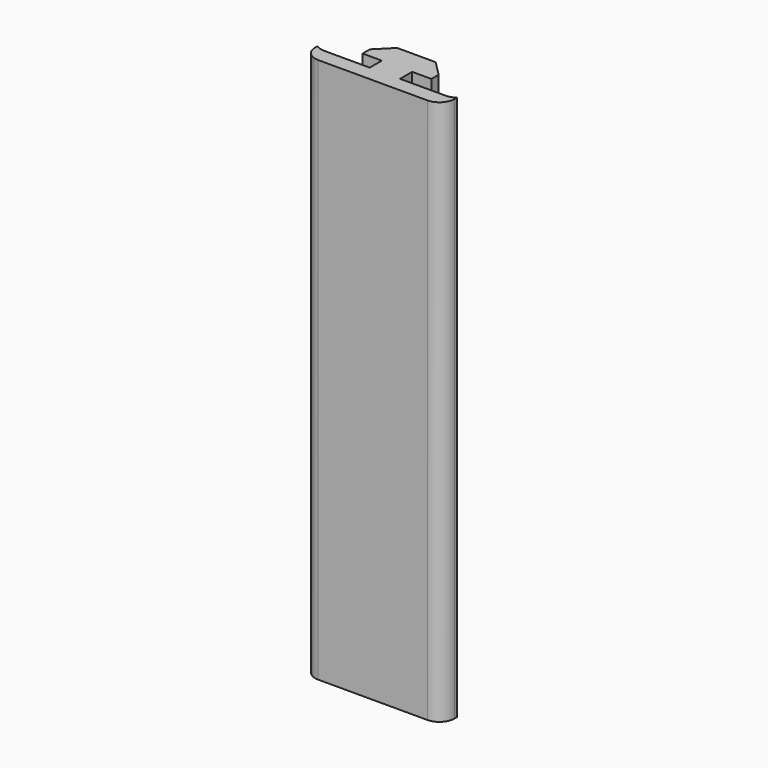
from build123d import *

# Parameters (mm, degrees)
PAD_DEPTH              = 180
FUSION_PLACEMENT_ANGLE = 90
BOX_W                  = 46
BOX_H                  = 18
BOX_DEPTH              = 180
FILLET_R               = 5


with BuildPart() as pad:
    # Sketch → Pad (new body)
    with BuildSketch(Plane.XY):
        with BuildLine():
            Line((-4.01, 0), (-12.01, 0))
            Line((-12.01, 0), (-12.01, -6.353146))
            Line((-12.01, -6.353146), (-17, -11.343146))
            Line((-17, -11.343146), (-20, -11.343146))
            Line((-20, -11.343146), (-20, -5))
            Line((-20, -5), (-25, -5))
            Line((-25, -5), (-25, -20))
            ThreePointArc((-25, -20), (-23.535534, -23.535534), (-20, -25))
            Line((-20, -25), (-5, -25))
            Line((-5, -25), (-5, -20))
            Line((-5, -20), (-11.343146, -20))
            Line((-11.343146, -20), (-11.343146, -17))
            Line((-11.343146, -17), (-6.353146, -12.01))
            Line((-6.353146, -12.01), (0, -12.01))
            Line((0, -12.01), (0, -4.01))
            ThreePointArc((-4.01, 0), (-2.835498, -2.835498), (0, -4.01))
        make_face()
    extrude(amount=PAD_DEPTH)


with BuildPart() as part_mirroring:
    # Part__Mirroring: instance of Pad
    add(pad.part.mirror(Plane(origin=(0, 0, 0), x_dir=(1, 0, 0), z_dir=(0, 1, 0))))


with BuildPart() as fusion:
    # Fusion base: copy of Pad
    add(pad.part)

    # Fusion: union Part__Mirroring
    add(part_mirroring.part)


with BuildPart() as fusion_1:
    # Fusion placement: moved
    add(fusion.part.moved(Location((23, 25, 0))).rotate(Axis((23, 25, 0), (0, 0, 1)), FUSION_PLACEMENT_ANGLE))


with BuildPart() as fillet_body:
    # Box → Box (new body)
    with BuildSketch(Plane(origin=(0, -5, 0), x_dir=(1, 0, 0), z_dir=(0, 0, 1))):
        with Locations((23, 9)):
            Rectangle(BOX_W, BOX_H)
    extrude(amount=BOX_DEPTH)

    # Cut: cut Fusion
    add(fusion_1.part, mode=Mode.SUBTRACT)

    # Fillet
    fillet_edges = [fillet_body.edges().sort_by_distance(p)[0] for p in [
        (0, -5, 90),
        (46, -5, 90),
    ]]
    fillet(fillet_edges, radius=FILLET_R)


solid = fillet_body.part
